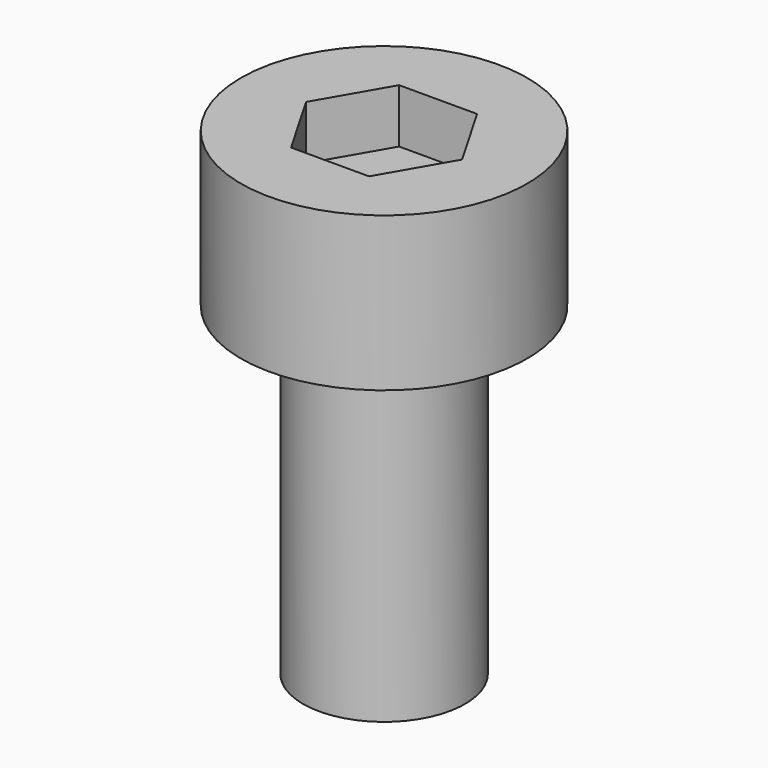
from build123d import *

# Parameters (mm, degrees)
POCKET_DEPTH = 1


with BuildPart() as part:
    # Sketch → Revolution (revolve)
    with BuildSketch(Plane.XZ):
        Polygon((0, 8.85), (-2.65, 8.85), (-2.65, 6), (-1.5, 6), (-1.5, 0), (0, 0), align=None)
    revolve(axis=Axis((0, 0, 0), (0, 0, 1)))

    # Sketch001 (on Face1 of Revolution) → Pocket (cut)
    with BuildSketch(Plane(origin=(0, 0, 8.85), x_dir=(-1, 0, 0), z_dir=(0, 0, 1))):
        Polygon((0.721688, 1.25), (-0.721688, 1.25), (-1.443376, 0), (-0.721688, -1.25), (0.721688, -1.25), (1.443376, 0), align=None)
    extrude(amount=-POCKET_DEPTH, mode=Mode.SUBTRACT)


solid = part.part
